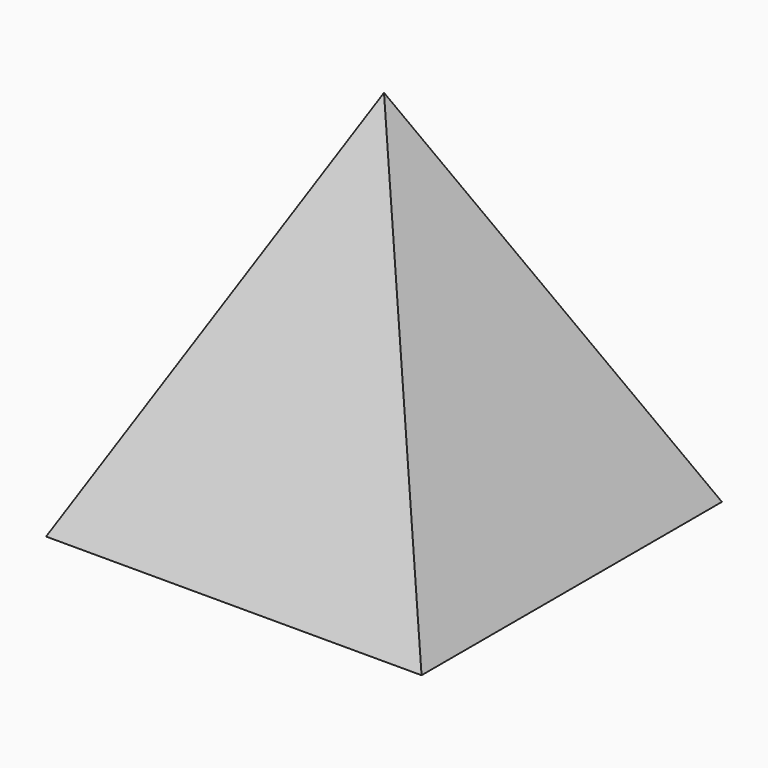
from build123d import *

# Parameters (mm, degrees)
F1_W = 10
F1_H = 10


with BuildPart() as f2:
    # F1 (on offset) → F2 section 0
    with BuildSketch(Plane.XY.offset(-10), mode=Mode.PRIVATE) as f2_s0:
        Rectangle(F1_W, F1_H)
    loft([f2_s0.sketch, Vertex(0, 0, 0)])


solid = f2.part
